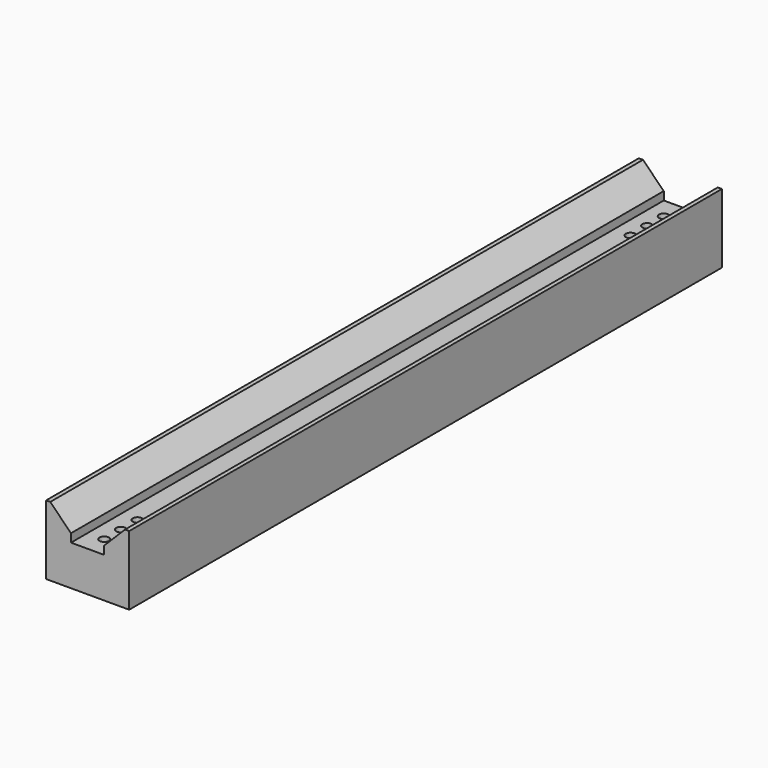
from build123d import *

# Parameters (mm, degrees)
F1_DEPTH = 535
F2_R     = 3.4
F3_DEPTH = 30
F4_R     = 3.4
F5_DEPTH = 30


with BuildPart() as f1:
    # F0 (on Front) → F1 (new body)
    with BuildSketch(Plane.XZ):
        Polygon((0, 50), (0, 0), (60, 0), (60, 50), (57, 50), (42, 35), (42, 29), (30, 29), (18, 29), (18, 35), (3, 50), align=None)
    extrude(amount=F1_DEPTH)

    # F2 (on face) → F3 (cut)
    with BuildSketch(Plane(origin=(0, 0, 0), x_dir=(1, 0, 0), z_dir=(0, 0, -1))):
        with Locations((30, 520)):
            Circle(F2_R)
        with Locations((30, 505)):
            Circle(F2_R)
        with Locations((30, 490)):
            Circle(F2_R)
        with Locations((30, 45)):
            Circle(F2_R)
        with Locations((30, 30)):
            Circle(F2_R)
        with Locations((30, 15)):
            Circle(F2_R)
    extrude(amount=-F3_DEPTH, mode=Mode.SUBTRACT)

    # F4 (on face) → F5 (cut)
    with BuildSketch(Plane(origin=(0, 0, 0), x_dir=(0, -1, 0), z_dir=(-1, 0, 0))):
        with Locations((30, 9)):
            Circle(F4_R)
        with Locations((505, 9)):
            Circle(F4_R)
    extrude(amount=-F5_DEPTH, mode=Mode.SUBTRACT)


solid = f1.part
